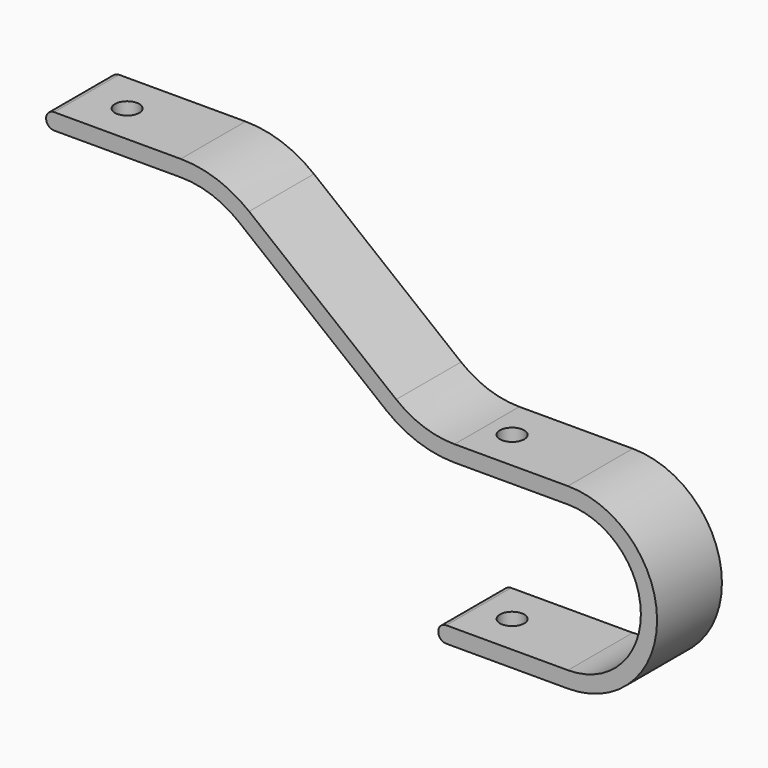
from build123d import *

# Parameters (mm, degrees)
F1_DEPTH = 10
F2_R     = 3
F3_DEPTH = 50
F4_R     = 3
F5_DEPTH = 25


with BuildPart() as f1:
    # F0 (on Front) → F1 (new body, symmetric)
    with BuildSketch(Plane.XZ):
        with BuildLine():
            ThreePointArc((-56.90276, 76.083458), (-64.832339, 80.477965), (-73.769526, 82))
            Line((-73.769526, 82), (-105, 82))
            ThreePointArc((-105, 82), (-107, 80), (-105, 78))
            Line((-105, 78), (-73.769526, 78))
            ThreePointArc((-73.769526, 78), (-66.156367, 76.703451), (-59.40154, 72.959983))
            Line((-59.40154, 72.959983), (-23.09724, 43.916542))
            ThreePointArc((-23.09724, 43.916542), (-15.167661, 39.522035), (-6.230474, 38))
            Line((-6.230474, 38), (1.769526, 38))
            Line((1.769526, 38), (21.769526, 38))
            ThreePointArc((21.769526, 38), (39.769526, 20), (21.769526, 2))
            Line((21.769526, 2), (1.769526, 2))
            Line((1.769526, 2), (-8.230474, 2))
            ThreePointArc((-8.230474, 2), (-10.230474, 0), (-8.230474, -2))
            Line((-8.230474, -2), (1.769526, -2))
            Line((1.769526, -2), (21.769526, -2))
            ThreePointArc((21.769526, -2), (43.769526, 20), (21.769526, 42))
            Line((21.769526, 42), (1.769526, 42))
            Line((1.769526, 42), (-6.230474, 42))
            ThreePointArc((-6.230474, 42), (-13.843633, 43.296549), (-20.59846, 47.040017))
            Line((-20.59846, 47.040017), (-56.90276, 76.083458))
        make_face()
    extrude(amount=F1_DEPTH, both=True)

    # F2 (on Top) → F3 (cut, symmetric)
    with BuildSketch(Plane.XY):
        Circle(F2_R)
    extrude(amount=F3_DEPTH, both=True, mode=Mode.SUBTRACT)

    # F4 (on face) → F5 (cut)
    with BuildSketch(Plane.XY.offset(82)):
        with Locations((-95, 0)):
            Circle(F4_R)
    extrude(amount=-F5_DEPTH, mode=Mode.SUBTRACT)


solid = f1.part
